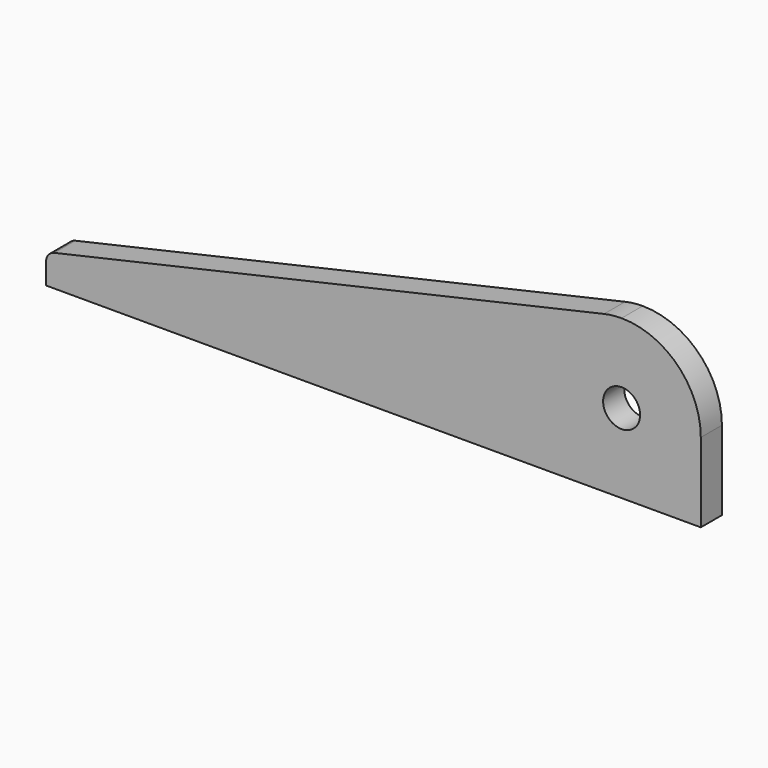
from build123d import *

# Parameters (mm, degrees)
F0_R     = 17.5
F1_DEPTH = 25


with BuildPart() as f1:
    # F0 (on Front) → F1 (new body)
    with BuildSketch(Plane.XZ):
        with BuildLine():
            Line((50, 20), (50, 0))
            Line((50, 0), (670, 0))
            Line((670, 0), (670, 75))
            ThreePointArc((670, 75), (648.033009, 128.033009), (595, 150))
            ThreePointArc((595, 150), (586.632517, 149.531773), (578.369511, 148.132939))
            Line((578.369511, 148.132939), (57.782601, 29.751059))
            ThreePointArc((57.782601, 29.751059), (52.184183, 26.238029), (50, 20))
        make_face()
        with Locations((595, 75)):
            Circle(F0_R, mode=Mode.SUBTRACT)
    extrude(amount=F1_DEPTH)


solid = f1.part
